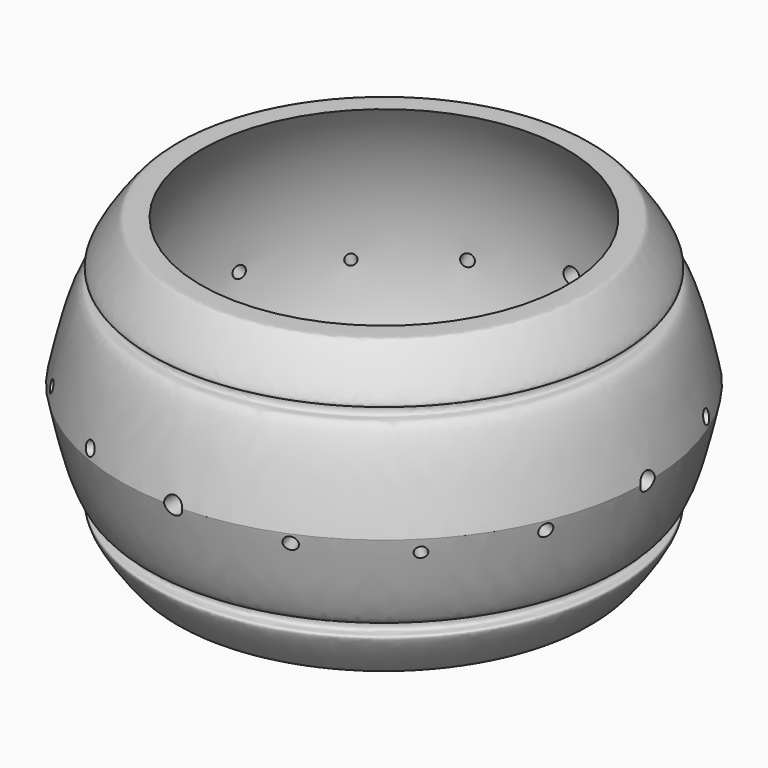
from build123d import *

# Parameters (mm, degrees)
F6_R  = 0.925
F10_R = 0.925
F13_R = 0.925
F16_R = 0.925
F19_R = 0.60125
F22_R = 0.60125
F25_R = 0.60125
F28_R = 0.60125
F31_R = 0.69375
F34_R = 0.69375
F37_R = 0.69375
F40_R = 0.69375
F43_R = 0.69375
F46_R = 0.69375
F49_R = 0.69375
F52_R = 0.69375


with BuildPart() as f7:
    # F4 (on Front) → F7 (revolve)
    with BuildSketch(Plane.XZ):
        with BuildLine():
            Line((-17.8648648649, 15), (-18.0810810811, 15))
            add(Edge.make_bspline(
                [(-18.0810810811, 15), (-18.47794199, 15), (-19.2176180833, 15.000760341), (-20.0419027175, 14.997862057), (-20.777923668, 15.0066956807), (-21.2608932464, 14.9567581554), (-24.9741564811, 9.7555682799), (-22.815502675, 10.5325383745), (-22.9434825824, 8.8463336523), (-24.7133428729, 9.8303425637), (-26.1577229584, 3.9919680807), (-27, 0)],
                knots=[0, 0, 0, 0, 0.0914850618, 0.1700996564, 0.2384984053, 0.3035391715, 0.4958281815, 0.5731683774, 0.6567971796, 0.7361965614, 1, 1, 1, 1], degree=3))
            add(Edge.make_bspline(
                [(-18.0810810811, -15), (-18.47794199, -15), (-19.2176180833, -15.000760341), (-20.0419027175, -14.997862057), (-20.777923668, -15.0066956807), (-21.2608932464, -14.9567581554), (-24.9741564811, -9.7555682799), (-22.815502675, -10.5325383745), (-22.9434825824, -8.8463336523), (-24.7133428729, -9.8303425637), (-26.1577229584, -3.9919680807), (-27, 0)],
                knots=[0, 0, 0, 0, 0.0914850618, 0.1700996564, 0.2384984053, 0.3035391715, 0.4958281815, 0.5731683774, 0.6567971796, 0.7361965614, 1, 1, 1, 1], degree=3))
            Line((-18.0810810811, -15), (-18.0810810811, -14))
            Line((-18.0810810811, -14), (-16.8648648649, -14))
            Line((-16.8648648649, -14), (-16.8648648649, 0))
            Line((-16.8648648649, 0), (-16.8648648649, 14))
            ThreePointArc((-16.8648648649, 14), (-17.1577580837, 14.7071067812), (-17.8648648649, 15))
        make_face()
    revolve(axis=Axis((0, 0, -5.526015535), (0, 0, -1)))

    # F6 (on line) → F8 section 0
    with BuildSketch(Plane.YZ.offset(-27), mode=Mode.PRIVATE) as f8_s0:
        Circle(F6_R)
    loft([f8_s0.sketch, Vertex(0, 0, 0)], mode=Mode.SUBTRACT)

    # F10 (on line) → F11 section 0
    with BuildSketch(Plane.XZ.offset(-27), mode=Mode.PRIVATE) as f11_s0:
        Circle(F10_R)
    loft([f11_s0.sketch, Vertex(0, 0, 0)], mode=Mode.SUBTRACT)

    # F13 (on line) → F14 section 0
    with BuildSketch(Plane.YZ.offset(27), mode=Mode.PRIVATE) as f14_s0:
        Circle(F13_R)
    loft([f14_s0.sketch, Vertex(0, 0, 0)], mode=Mode.SUBTRACT)

    # F16 (on line) → F17 section 0
    with BuildSketch(Plane(origin=(0, -27, 0), x_dir=(-1, 0, 0), z_dir=(0, 1, 0)), mode=Mode.PRIVATE) as f17_s0:
        Circle(F16_R)
    loft([f17_s0.sketch, Vertex(0, 0, 0)], mode=Mode.SUBTRACT)

    # F19 (on face) → F20 section 0
    with BuildSketch(Plane(origin=(19.091883092, -19.091883092, 0), x_dir=(0.7071067812, 0.7071067812, 0), z_dir=(0.7071067812, -0.7071067812, 0)), mode=Mode.PRIVATE) as f20_s0:
        with Locations((0, -1.35)):
            Circle(F19_R)
    loft([f20_s0.sketch, Vertex(0, 0, 0)], mode=Mode.SUBTRACT)

    # F22 (on face) → F23 section 0
    with BuildSketch(Plane(origin=(-19.091883092, -19.091883092, 0), x_dir=(-0.7071067812, 0.7071067812, 0), z_dir=(0.7071067812, 0.7071067812, 0)), mode=Mode.PRIVATE) as f23_s0:
        with Locations((0, 1.35)):
            Circle(F22_R)
    loft([f23_s0.sketch, Vertex(0, 0, 0)], mode=Mode.SUBTRACT)

    # F25 (on face) → F26 section 0
    with BuildSketch(Plane(origin=(-19.091883092, 19.091883092, 0), x_dir=(0.7071067812, 0.7071067812, 0), z_dir=(0.7071067812, -0.7071067812, 0)), mode=Mode.PRIVATE) as f26_s0:
        with Locations((0, -1.35)):
            Circle(F25_R)
    loft([f26_s0.sketch, Vertex(0, 0, 0)], mode=Mode.SUBTRACT)

    # F28 (on face) → F29 section 0
    with BuildSketch(Plane(origin=(19.091883092, 19.091883092, 0), x_dir=(-0.7071067812, 0.7071067812, 0), z_dir=(0.7071067812, 0.7071067812, 0)), mode=Mode.PRIVATE) as f29_s0:
        with Locations((0, 1.35)):
            Circle(F28_R)
    loft([f29_s0.sketch, Vertex(0, 0, 0)], mode=Mode.SUBTRACT)

    # F31 (on line) → F32 section 0
    with BuildSketch(Plane(origin=(10.3324526739, -24.9447473778, 0), x_dir=(-0.9238795325, -0.3826834324, 0), z_dir=(-0.3826834324, 0.9238795325, 0)), mode=Mode.PRIVATE) as f32_s0:
        with Locations((0, -0.95445)):
            Circle(F31_R)
    loft([f32_s0.sketch, Vertex(0, 0, 0)], mode=Mode.SUBTRACT)

    # F34 (on line) → F35 section 0
    with BuildSketch(Plane(origin=(-10.3324526739, -24.9447473778, 0), x_dir=(-0.9238795325, 0.3826834324, 0), z_dir=(0.3826834324, 0.9238795325, 0)), mode=Mode.PRIVATE) as f35_s0:
        with Locations((0, 0.95445)):
            Circle(F34_R)
    loft([f35_s0.sketch, Vertex(0, 0, 0)], mode=Mode.SUBTRACT)

    # F37 (on line) → F38 section 0
    with BuildSketch(Plane(origin=(-24.9447473778, -10.3324526739, 0), x_dir=(-0.3826834324, 0.9238795325, 0), z_dir=(0.9238795325, 0.3826834324, 0)), mode=Mode.PRIVATE) as f38_s0:
        with Locations((0, 0.95445)):
            Circle(F37_R)
    loft([f38_s0.sketch, Vertex(0, 0, 0)], mode=Mode.SUBTRACT)

    # F40 (on line) → F41 section 0
    with BuildSketch(Plane(origin=(-24.9447473778, 10.3324526739, 0), x_dir=(0.3826834324, 0.9238795325, 0), z_dir=(0.9238795325, -0.3826834324, 0)), mode=Mode.PRIVATE) as f41_s0:
        with Locations((0, -0.95445)):
            Circle(F40_R)
    loft([f41_s0.sketch, Vertex(0, 0, 0)], mode=Mode.SUBTRACT)

    # F43 (on line) → F44 section 0
    with BuildSketch(Plane(origin=(-10.3324526739, 24.9447473778, 0), x_dir=(0.9238795325, 0.3826834324, 0), z_dir=(0.3826834324, -0.9238795325, 0)), mode=Mode.PRIVATE) as f44_s0:
        with Locations((0, -0.95445)):
            Circle(F43_R)
    loft([Vertex(0, 0, 0), f44_s0.sketch], mode=Mode.SUBTRACT)

    # F46 (on line) → F47 section 0
    with BuildSketch(Plane(origin=(10.3324526739, 24.9447473778, 0), x_dir=(0.9238795325, -0.3826834324, 0), z_dir=(-0.3826834324, -0.9238795325, 0)), mode=Mode.PRIVATE) as f47_s0:
        with Locations((0, 0.95445)):
            Circle(F46_R)
    loft([f47_s0.sketch, Vertex(0, 0, 0)], mode=Mode.SUBTRACT)

    # F49 (on line) → F50 section 0
    with BuildSketch(Plane(origin=(24.9447473778, 10.3324526739, 0), x_dir=(-0.3826834324, 0.9238795325, 0), z_dir=(0.9238795325, 0.3826834324, 0)), mode=Mode.PRIVATE) as f50_s0:
        with Locations((0, 0.95445)):
            Circle(F49_R)
    loft([f50_s0.sketch, Vertex(0, 0, 0)], mode=Mode.SUBTRACT)

    # F52 (on line) → F53 section 0
    with BuildSketch(Plane(origin=(24.9447473778, -10.3324526739, 0), x_dir=(0.3826834324, 0.9238795325, 0), z_dir=(0.9238795325, -0.3826834324, 0)), mode=Mode.PRIVATE) as f53_s0:
        with Locations((0, -0.95445)):
            Circle(F52_R)
    loft([f53_s0.sketch, Vertex(0, 0, 0)], mode=Mode.SUBTRACT)

    # F54 (on Front) → F55 (revolve, cut)
    with BuildSketch(Plane.XZ):
        with BuildLine():
            Line((0, -24), (0, 24))
            ThreePointArc((0, 24), (-24, 0), (0, -24))
        make_face()
    revolve(axis=Axis((0, 0, 0), (0, 0, -1)), mode=Mode.SUBTRACT)


with BuildPart() as f56:
    # F4 (on Front) → F56 (revolve)
    with BuildSketch(Plane.XZ):
        with BuildLine():
            Line((-18.0810810811, -14), (-18.0810810811, -15))
            Line((-18.0810810811, -15), (-17.8648648649, -15))
            ThreePointArc((-17.8648648649, -15), (-17.1577580837, -14.7071067812), (-16.8648648649, -14))
            Line((-16.8648648649, -14), (-18.0810810811, -14))
        make_face()
        with BuildLine():
            ThreePointArc((-16.8648648649, -14), (-17.1577580837, -14.7071067812), (-17.8648648649, -15))
            Line((-17.8648648649, -15), (0, -15))
            Line((0, -15), (0, -14))
            Line((0, -14), (-16.8648648649, -14))
        make_face()
    revolve(axis=Axis((0, 0, -14.5), (0, 0, 1)))


solid = Compound([f7.part, f56.part])
